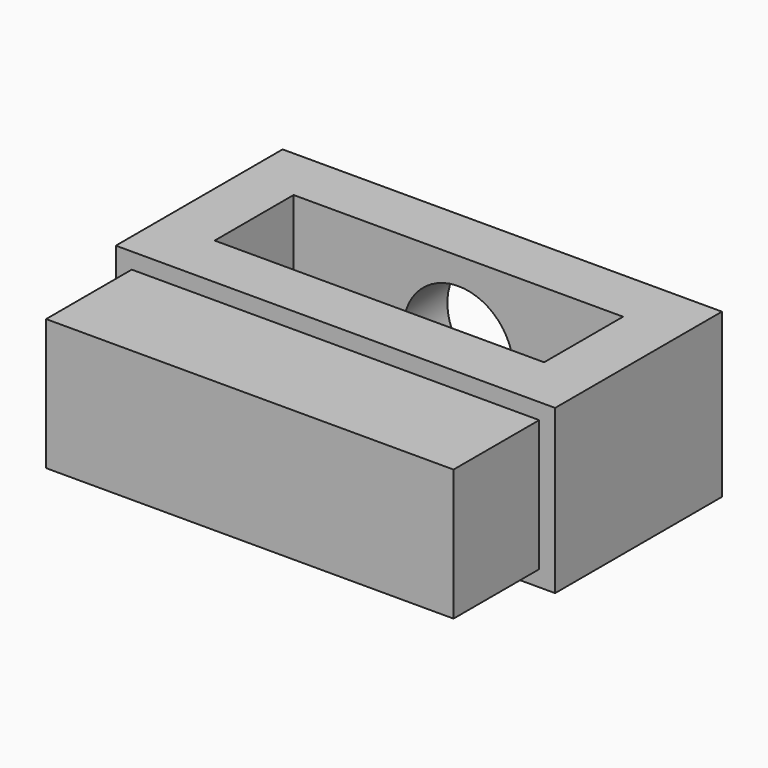
from build123d import *

# Parameters (mm, degrees)
F0_W          = 203.2
F0_H          = 96.442764
F0_W_2        = 152.4
F0_H_2        = 45.642764
F1_DEPTH      = 49.784
F1_DEPTH_BACK = 25.654
F2_R          = 25.4
F3_DEPTH      = 96.442764
F4_W          = 188.468
F4_H          = 60.706
F5_DEPTH      = 49.53


with BuildPart() as f1:
    # F0 (on Top) → F1 (new body, two sides)
    with BuildSketch(Plane.XY) as f1_sk:
        with Locations((101.6, -48.221382)):
            Rectangle(F0_W, F0_H)
        with Locations((101.6, -48.221382)):
            Rectangle(F0_W_2, F0_H_2, mode=Mode.SUBTRACT)
    extrude(amount=F1_DEPTH)
    extrude(f1_sk.sketch, amount=-F1_DEPTH_BACK)

    # F2 (on face) → F3 (cut, through all)
    with BuildSketch(Plane.XZ.offset(96.442764)):
        with Locations((101.6, 12.065)):
            Circle(F2_R)
    extrude(amount=-F3_DEPTH, mode=Mode.SUBTRACT)


with BuildPart() as f5:
    # F4 (on face) → F5 (new body)
    with BuildSketch(Plane.XZ.offset(96.442764)):
        with Locations((101.6, 12.065)):
            Rectangle(F4_W, F4_H)
    extrude(amount=F5_DEPTH)


solid = Compound([f1.part, f5.part])
